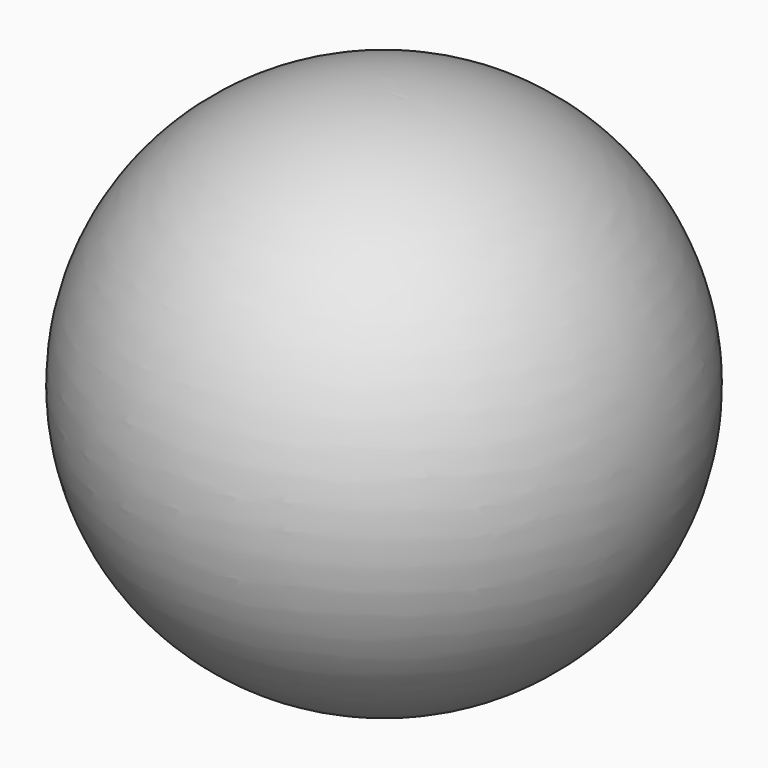
from build123d import *


with BuildPart() as f1:
    # F0 (on Front) → F1 (revolve)
    with BuildSketch(Plane.XZ):
        with BuildLine():
            Line((0, 50.8), (0, 0))
            ThreePointArc((0, 0), (25.4, 25.4), (0, 50.8))
        make_face()
    revolve(axis=Axis((0, 0, 25.4), (0, 0, 1)))

    # F2 (on Front) → F3 (revolve)
    with BuildSketch(Plane.XZ):
        with BuildLine():
            Line((0, 76.2), (0, 0))
            ThreePointArc((0, 0), (38.872002, 38.1), (0, 76.2))
        make_face()
    revolve(axis=Axis((0, 0, 38.1), (0, 0, 1)))


solid = f1.part
